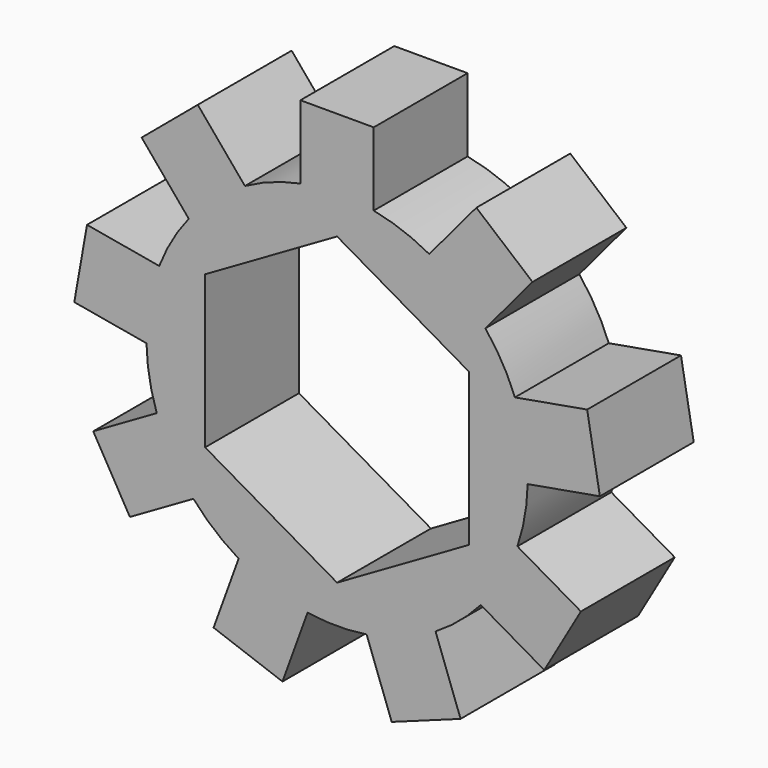
from build123d import *

# Parameters (mm, degrees)
F1_DEPTH = 5.08


with BuildPart() as f1:
    # F0 (on Front) → F1 (new body)
    with BuildSketch(Plane.XZ):
        with BuildLine():
            ThreePointArc((8.253513, -0.156673), (8.254628, -0.07834), (8.255, 0))
            ThreePointArc((8.255, 0), (8.115618, 1.510551), (7.70218, 2.970092))
            ThreePointArc((7.70218, 2.970092), (7.14904, 4.1275), (6.423265, 5.185238))
            ThreePointArc((6.423265, 5.185238), (5.306212, 6.323697), (3.991074, 7.226088))
            ThreePointArc((3.991074, 7.226088), (2.823376, 7.757163), (1.5875, 8.100918))
            ThreePointArc((1.5875, 8.100918), (0, 8.255), (-1.5875, 8.100918))
            ThreePointArc((-1.5875, 8.100918), (-2.823376, 7.757163), (-3.991074, 7.226088))
            ThreePointArc((-3.991074, 7.226088), (-5.306212, 6.323697), (-6.423265, 5.185238))
            ThreePointArc((-6.423265, 5.185238), (-7.14904, 4.1275), (-7.70218, 2.970092))
            ThreePointArc((-7.70218, 2.970092), (-8.129588, 1.433466), (-8.253513, -0.156673))
            ThreePointArc((-8.253513, -0.156673), (-8.129588, -1.433466), (-7.809351, -2.675644))
            ThreePointArc((-7.809351, -2.675644), (-7.14904, -4.1275), (-6.221851, -5.425274))
            ThreePointArc((-6.221851, -5.425274), (-5.306212, -6.323697), (-4.262439, -7.069416))
            ThreePointArc((-4.262439, -7.069416), (-2.823376, -7.757163), (-1.278915, -8.15533))
            ThreePointArc((-1.278915, -8.15533), (0, -8.255), (1.278915, -8.15533))
            ThreePointArc((1.278915, -8.15533), (2.823376, -7.757163), (4.262439, -7.069416))
            ThreePointArc((4.262439, -7.069416), (5.306212, -6.323697), (6.221851, -5.425274))
            ThreePointArc((6.221851, -5.425274), (7.14904, -4.1275), (7.809351, -2.675644))
            ThreePointArc((7.809351, -2.675644), (8.129588, -1.433466), (8.253513, -0.156673))
        make_face()
        Polygon((-5.715, 3.299557), (0, 6.599114), (5.715, 3.299557), (5.715, -3.299557), (0, -6.599114), (-5.715, -3.299557), align=None, mode=Mode.SUBTRACT)
        with BuildLine():
            ThreePointArc((-1.5875, 8.100918), (0, 8.255), (1.5875, 8.100918))
            Line((1.5875, 8.100918), (1.5875, 11.275918))
            Line((1.5875, 11.275918), (-1.5875, 11.275918))
            Line((-1.5875, 11.275918), (-1.5875, 8.100918))
        make_face()
        with BuildLine():
            ThreePointArc((3.991074, 7.226088), (5.306212, 6.323697), (6.423265, 5.185238))
            Line((6.423265, 5.185238), (8.464116, 7.617429))
            Line((8.464116, 7.617429), (6.031925, 9.658279))
            Line((6.031925, 9.658279), (3.991074, 7.226088))
        make_face()
        with BuildLine():
            ThreePointArc((7.70218, 2.970092), (8.115618, 1.510551), (8.255, 0))
            ThreePointArc((8.255, 0), (8.254628, -0.07834), (8.253513, -0.156673))
            Line((8.253513, -0.156673), (11.380278, 0.39466))
            Line((11.380278, 0.39466), (10.828945, 3.521425))
            Line((10.828945, 3.521425), (7.70218, 2.970092))
        make_face()
        with BuildLine():
            Line((10.558981, -4.263144), (7.809351, -2.675644))
            ThreePointArc((7.809351, -2.675644), (7.14904, -4.1275), (6.221851, -5.425274))
            Line((6.221851, -5.425274), (8.971481, -7.012774))
            Line((8.971481, -7.012774), (10.558981, -4.263144))
        make_face()
        with BuildLine():
            Line((5.348353, -10.05294), (4.262439, -7.069416))
            ThreePointArc((4.262439, -7.069416), (2.823376, -7.757163), (1.278915, -8.15533))
            Line((1.278915, -8.15533), (2.364829, -11.138854))
            Line((2.364829, -11.138854), (5.348353, -10.05294))
        make_face()
        with BuildLine():
            Line((-2.364829, -11.138854), (-1.278915, -8.15533))
            ThreePointArc((-1.278915, -8.15533), (-2.823376, -7.757163), (-4.262439, -7.069416))
            Line((-4.262439, -7.069416), (-5.348353, -10.05294))
            Line((-5.348353, -10.05294), (-2.364829, -11.138854))
        make_face()
        with BuildLine():
            Line((-8.971481, -7.012774), (-6.221851, -5.425274))
            ThreePointArc((-6.221851, -5.425274), (-7.14904, -4.1275), (-7.809351, -2.675644))
            Line((-7.809351, -2.675644), (-10.558981, -4.263144))
            Line((-10.558981, -4.263144), (-8.971481, -7.012774))
        make_face()
        with BuildLine():
            ThreePointArc((-8.253513, -0.156673), (-8.129588, 1.433466), (-7.70218, 2.970092))
            Line((-7.70218, 2.970092), (-10.828945, 3.521425))
            Line((-10.828945, 3.521425), (-11.380278, 0.39466))
            Line((-11.380278, 0.39466), (-8.253513, -0.156673))
        make_face()
        with BuildLine():
            ThreePointArc((-6.423265, 5.185238), (-5.306212, 6.323697), (-3.991074, 7.226088))
            Line((-3.991074, 7.226088), (-6.031925, 9.658279))
            Line((-6.031925, 9.658279), (-8.464116, 7.617429))
            Line((-8.464116, 7.617429), (-6.423265, 5.185238))
        make_face()
    extrude(amount=F1_DEPTH)


solid = f1.part
